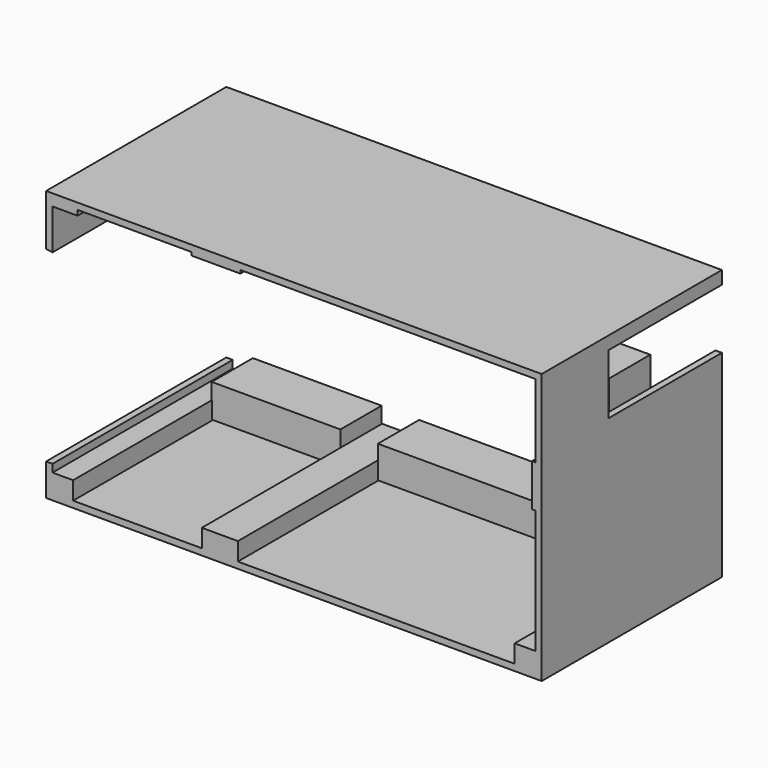
from build123d import *

# Parameters (mm, degrees)
F1_DEPTH = 88.9
F2_W     = 55.88
F2_H     = 23.652589
F3_DEPTH = 25.4
F5_W     = 152.4
F5_H     = 12.7
F4_W     = 50.8
F4_H     = 13.067906
F6_W     = 64.770278
F6_H     = 12.7
F7_W     = 12.7
F7_H     = 65.045893
F8_DEPTH = 20.32


with BuildPart() as f1:
    # F0 (on Front) → F1 (new body)
    with BuildSketch(Plane.XZ):
        Polygon((-143.647713, 48.72386), (-143.647713, 50.75586), (-98.733298, 50.75586), (-98.733298, 49.48586), (-79.429298, 49.48586), (-79.429298, 50.75586), (36.946287, 50.75586), (36.946287, 21.79986), (35.676287, 21.79986), (35.676287, 5.03586), (36.946287, 5.03586), (36.946287, -43.73214), (28.818287, -43.73214), (28.818287, -50.84414), (-80.401713, -50.84414), (-80.401713, -43.73214), (-94.625713, -43.73214), (-94.625713, -50.84414), (-145.425713, -50.84414), (-145.425713, -43.73214), (-153.553713, -43.73214), (-153.553713, -40.68414), (-156.093713, -40.68414), (-156.093713, -53.38414), (39.486287, -53.38414), (39.486287, -50.84414), (39.486287, 53.29586), (-156.093713, 53.29586), (-156.093713, 33.135816), (-153.553713, 32.767907), (-153.553713, 48.72386), align=None)
    extrude(amount=F1_DEPTH)

    # F2 (on face) → F3 (cut)
    with BuildSketch(Plane.YZ.offset(39.486287)):
        with Locations((-27.94, 36.354907)):
            Rectangle(F2_W, F2_H)
    extrude(amount=-F3_DEPTH, mode=Mode.SUBTRACT)

    # F5 (on Front) + F4 (on Front) + F6 (on Front) + F7 (on Front) → F8 (join)
    with BuildSketch(Plane.XZ):
        with Locations((-77.483707, 41.82889)):
            Rectangle(F5_W, F5_H)
    with BuildSketch(Plane.XZ):
        with Locations((-120.213909, -44.048009)):
            Rectangle(F4_W, F4_H)
    with BuildSketch(Plane.XZ):
        with Locations((-47.639953, -44.010493)):
            Rectangle(F6_W, F6_H)
        Polygon((-15.254814, -37.660493), (-15.254814, -50.360493), (-2.554814, -50.360493), (-2.554814, -4.640493), (-15.254814, -4.640493), align=None)
    with BuildSketch(Plane.XZ):
        with Locations((4.876096, -17.837546)):
            Rectangle(F7_W, F7_H)
    extrude(amount=F8_DEPTH)


solid = f1.part
